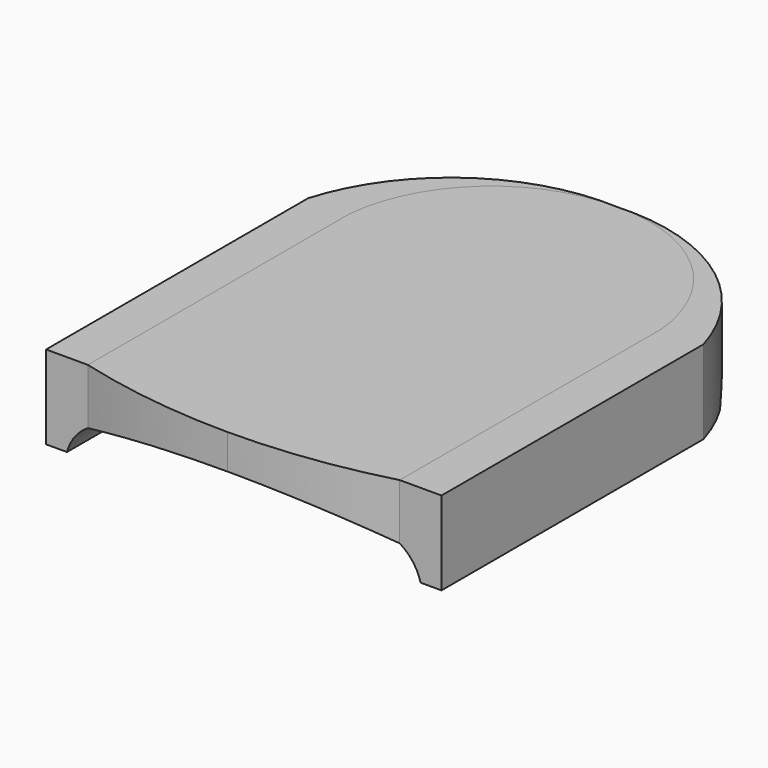
from build123d import *

# Parameters (mm, degrees)
F1_DEPTH = 2
F3_DEPTH = 25
F4_W     = 1.5
F4_H     = 11.760625
F5_DEPTH = 3
F7_DEPTH = 25
F9_DEPTH = 16.772419


with BuildPart() as f1:
    # F0 (on Top) → F1 (new body)
    with BuildSketch(Plane.XY):
        with BuildLine():
            ThreePointArc((11.2, 13.93612), (9.375652, 17.52885), (5.6, 18.93612))
            ThreePointArc((5.6, 18.93612), (1.824348, 17.52885), (0, 13.93612))
            Line((0, 13.93612), (0, 2.175495))
            ThreePointArc((0, 2.175495), (2.7757, 1.621762), (5.6, 1.43612))
            ThreePointArc((5.6, 1.43612), (8.4243, 1.621762), (11.2, 2.175495))
            Line((11.2, 2.175495), (11.2, 13.93612))
        make_face()
    extrude(amount=F1_DEPTH)

    # F2 (on Front) → F3 (cut)
    with BuildSketch(Plane.XZ):
        with BuildLine():
            Line((0, 0), (11.2, -5.5e-05))
            ThreePointArc((11.2, -5.5e-05), (5.600004, 0.750103), (0, 0))
        make_face()
    extrude(amount=-F3_DEPTH, mode=Mode.SUBTRACT)


with BuildPart() as f5:
    # F4 (on face) → F5 (new body)
    with BuildSketch(Plane.XY.offset(2)):
        with BuildLine():
            ThreePointArc((12.7, 13.93612), (10.019038, 17.670153), (5.6, 18.93612))
            ThreePointArc((5.6, 18.93612), (9.375652, 17.52885), (11.2, 13.93612))
            Line((11.2, 13.93612), (12.7, 13.93612))
        make_face()
        with Locations((11.95, 8.055808)):
            Rectangle(F4_W, F4_H)
        with BuildLine():
            Line((-1.5, 13.93612), (0, 13.93612))
            ThreePointArc((0, 13.93612), (1.824348, 17.52885), (5.6, 18.93612))
            ThreePointArc((5.6, 18.93612), (1.180962, 17.670153), (-1.5, 13.93612))
        make_face()
        with Locations((-0.75, 8.055808)):
            Rectangle(F4_W, F4_H)
    extrude(amount=-F5_DEPTH)

    # F6 (on face) → F7 (cut)
    with BuildSketch(Plane.XZ.offset(-2.175495)):
        with BuildLine():
            Line((0, -1), (0, 0))
            ThreePointArc((0, 0), (-0.470247, -0.428565), (-0.75, -1))
            Line((-0.75, -1), (0, -1))
        make_face()
    extrude(amount=-F7_DEPTH, mode=Mode.SUBTRACT)


with BuildPart() as f9_tool:
    # F8 (on face) → F9 (new body, through all)
    with BuildSketch(Plane.XZ.offset(-2.175495)):
        with BuildLine():
            Line((0, -1), (11.95, -1))
            ThreePointArc((11.95, -1), (11.670247, -0.428565), (11.2, 0))
            ThreePointArc((11.2, 0), (5.6, 0.756473), (0, 0))
            Line((0, 0), (0, -1))
        make_face()
    extrude(amount=-F9_DEPTH)


with BuildPart() as f1_1:
    add(f1.part)

    # F9: cut by f9_tool
    add(f9_tool.part, mode=Mode.SUBTRACT)


with BuildPart() as f5_1:
    add(f5.part)

    # F9: cut by f9_tool
    add(f9_tool.part, mode=Mode.SUBTRACT)


solid = Compound([f1_1.part, f5_1.part])
